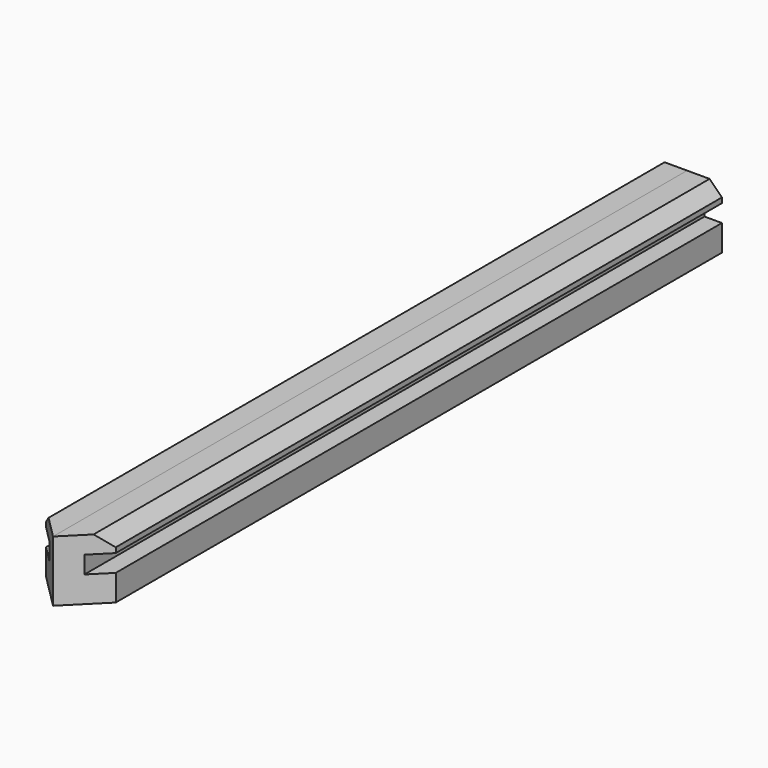
from build123d import *

# Parameters (mm, degrees)
F1_DEPTH = 288.925
F3_DEPTH = 22.226


with BuildPart() as f1:
    # F0 (on Front) → F1 (new body)
    with BuildSketch(Plane.XZ):
        Polygon((0, 22.225), (0, 0), (12.7, 0), (12.7, 9.525), (6.35, 9.525), (6.35, 15.875), (12.7, 15.875), (12.7, 17.734872), (8.209872, 22.225), align=None)
    extrude(amount=F1_DEPTH)

    # F2 (on face) → F3 (cut, through all)
    with BuildSketch(Plane(origin=(0, 0, 0), x_dir=(1, 0, 0), z_dir=(0, 0, -1))):
        Polygon((12.7, 288.925), (0, 288.925), (12.7, 276.225), align=None)
    extrude(amount=-F3_DEPTH, mode=Mode.SUBTRACT)


with BuildPart() as f4_1:
    # F4: instance of F1
    add(f1.part.mirror(Plane(origin=(0, -144.4625, 11.1125), x_dir=(0, -1, 0), z_dir=(-1, 0, 0))))


solid = Compound([f1.part, f4_1.part])
